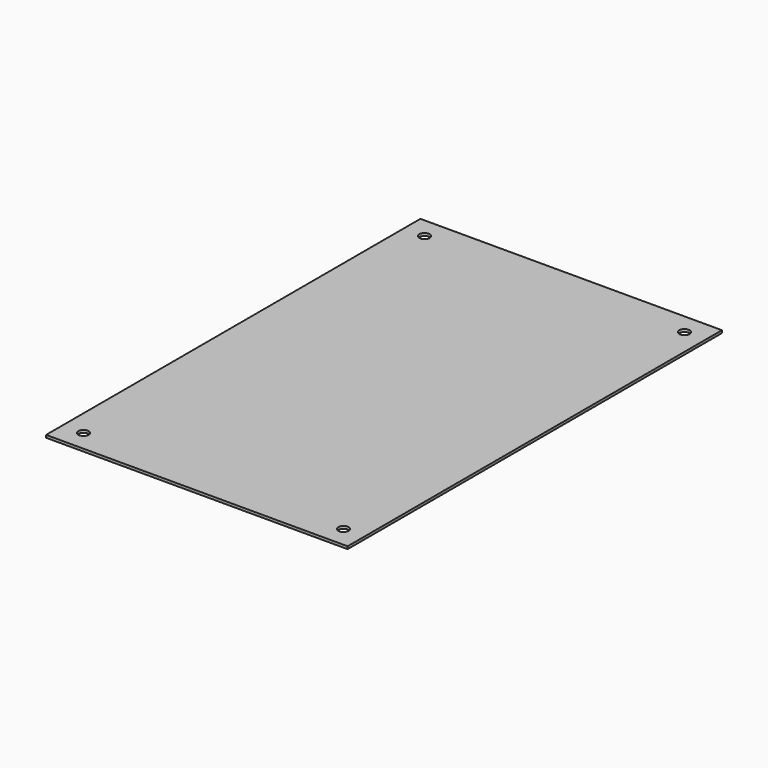
from build123d import *

# Parameters (mm, degrees)
F0_W     = 368.3
F0_H     = 571.5
F1_DEPTH = 1.5875
F2_R     = 6.35
F3_DEPTH = 25.4


with BuildPart() as f1:
    # F0 (on Top) → F1 (new body, symmetric)
    with BuildSketch(Plane.XY):
        with Locations((13.242061, 22.821271)):
            Rectangle(F0_W, F0_H)
    extrude(amount=F1_DEPTH, both=True)

    # F2 (on face) → F3 (cut)
    with BuildSketch(Plane.XY.offset(1.5875)):
        with Locations((171.992061, 283.171271)):
            Circle(F2_R)
        with Locations((-145.507939, 283.171271)):
            Circle(F2_R)
        with Locations((-145.507939, -237.528729)):
            Circle(F2_R)
        with Locations((171.992061, -237.528729)):
            Circle(F2_R)
    extrude(amount=-F3_DEPTH, mode=Mode.SUBTRACT)


solid = f1.part
